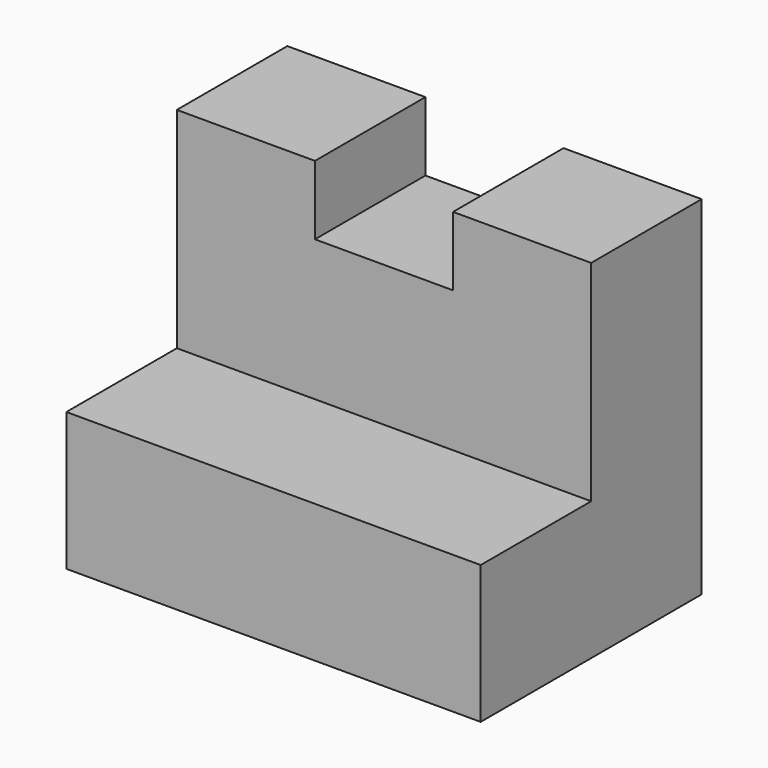
from build123d import *

# Parameters (mm, degrees)
F0_W     = 38.1
F0_H     = 12.7
F1_DEPTH = 25.4
F3_DEPTH = 12.7


with BuildPart() as f1:
    # F0 (on Front) → F1 (new body)
    with BuildSketch(Plane.XZ):
        with Locations((19.05, 6.35)):
            Rectangle(F0_W, F0_H)
    extrude(amount=F1_DEPTH)

    # F2 (on Front) → F3 (join)
    with BuildSketch(Plane.XZ):
        Polygon((0, 31.995658), (0, 12.945658), (0, 0), (38.1, 0), (38.1, 31.995658), (25.4, 31.995658), (25.4, 25.645658), (12.7, 25.645658), (12.7, 31.995658), align=None)
    extrude(amount=F3_DEPTH)


solid = f1.part
